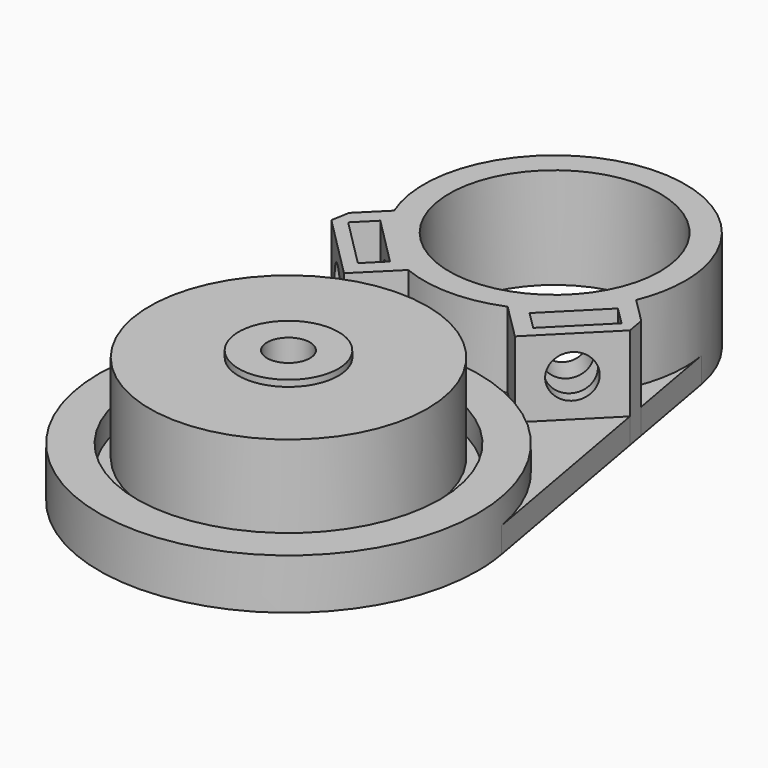
from build123d import *

# Parameters (mm, degrees)
F3_R         = 1.7
F4_DEPTH     = 10.5
F5_R         = 8.35
F5_R_2       = 1.7
F2_FACE1_R   = 15
F2_FACE1_R_2 = 1.7
F6_DEPTH     = 2
F7_DEPTH     = 8
F8_R         = 1.7
F9_DEPTH     = 6.4687966713
F10_R        = 1.7
F11_DEPTH    = 6.4687966703
F12_R        = 11
F12_R_2      = 3.95
F13_DEPTH    = 7


with BuildPart() as f2:
    # F1 (on Front) → F2 (revolve)
    with BuildSketch(Plane.XZ):
        Polygon((0, 10.5), (0, 0), (15, 0), (15, 4), (12, 4), (12, 2), (11, 2), (5.45, 2), (5.45, 3), (3.95, 3), (3.95, 10.5), align=None)
    revolve(axis=Axis((0, 0, 5.25), (0, 0, 1)))

    # F3 (on face) → F4 (cut, through all)
    with BuildSketch(Plane.XY.offset(10.5)):
        Circle(F3_R)
    extrude(amount=-F4_DEPTH, mode=Mode.SUBTRACT)

    # F5 (on face) + F2_face1 (on face) → F6 (join, through all)
    with BuildSketch(Plane(origin=(0, 0, 0), x_dir=(1, 0, 0), z_dir=(0, 0, -1))):
        with BuildLine():
            ThreePointArc((14.7645887035, -2.6470588235), (0, -15), (-14.7645887035, -2.6470588235))
            Line((-14.7645887035, -2.6470588235), (-11.8277186488, -19.0281373429))
            Line((-11.8277186488, -19.0281373429), (-6.769480635, -13.9539071991))
            Line((-6.769480635, -13.9539071991), (-3.9365929167, -16.7778666846))
            ThreePointArc((-3.9365929167, -16.7778666846), (0, -16), (3.9365929167, -16.7778666846))
            Line((3.9365929167, -16.7778666846), (6.769480635, -13.9539071991))
            Line((6.769480635, -13.9539071991), (11.8277186488, -19.0281373429))
            Line((11.8277186488, -19.0281373429), (14.7645887035, -2.6470588235))
        make_face()
        with BuildLine():
            Line((11.5702645211, -20.4641478586), (11.8277186488, -19.0281373429))
            Line((11.8277186488, -19.0281373429), (6.769480635, -13.9539071991))
            Line((6.769480635, -13.9539071991), (3.9365929167, -16.7778666846))
            ThreePointArc((3.9365929167, -16.7778666846), (7.3300969712, -19.0430048314), (9.5845118876, -22.4436421212))
            Line((9.5845118876, -22.4436421212), (11.5702645211, -20.4641478586))
        make_face()
        Polygon((9.4102464779, -20.8523748379), (5.5273021855, -16.9571542252), (6.9437460446, -15.5451744825), (10.8266903371, -19.4403950952), align=None, mode=Mode.SUBTRACT)
        with BuildLine():
            Line((10.1875662054, -28.1764705882), (11.5702645211, -20.4641478586))
            Line((11.5702645211, -20.4641478586), (9.5845118876, -22.4436421212))
            ThreePointArc((9.5845118876, -22.4436421212), (10.1568252431, -24.359673147), (10.35, -26.35))
            ThreePointArc((10.35, -26.35), (10.3093115732, -27.2668396189), (10.1875662054, -28.1764705882))
        make_face()
        with BuildLine():
            ThreePointArc((-9.5845118876, -22.4436421212), (-10.2932064289, -25.2672251329), (-10.1875662054, -28.1764705882))
            ThreePointArc((-10.1875662054, -28.1764705882), (0, -36.7), (10.1875662054, -28.1764705882))
            ThreePointArc((10.1875662054, -28.1764705882), (10.3093115732, -27.2668396189), (10.35, -26.35))
            ThreePointArc((10.35, -26.35), (10.1568252431, -24.359673147), (9.5845118876, -22.4436421212))
            ThreePointArc((9.5845118876, -22.4436421212), (7.3300969712, -19.0430048314), (3.9365929167, -16.7778666846))
            ThreePointArc((3.9365929167, -16.7778666846), (0, -16), (-3.9365929167, -16.7778666846))
            ThreePointArc((-3.9365929167, -16.7778666846), (-7.3300969712, -19.0430048314), (-9.5845118876, -22.4436421212))
        make_face()
        with Locations((0, -26.35)):
            Circle(F5_R, mode=Mode.SUBTRACT)
        with BuildLine():
            Line((-6.769480635, -13.9539071991), (-11.8277186488, -19.0281373429))
            Line((-11.8277186488, -19.0281373429), (-11.5702645211, -20.4641478586))
            Line((-11.5702645211, -20.4641478586), (-9.5845118876, -22.4436421212))
            ThreePointArc((-9.5845118876, -22.4436421212), (-7.3300969712, -19.0430048314), (-3.9365929167, -16.7778666846))
            Line((-3.9365929167, -16.7778666846), (-6.769480635, -13.9539071991))
        make_face()
        Polygon((-5.5273021855, -16.9571542252), (-9.4102464779, -20.8523748379), (-10.8266903371, -19.4403950952), (-6.9437460446, -15.5451744825), align=None, mode=Mode.SUBTRACT)
        Polygon((-10.8266903371, -19.4403950952), (-9.4102464779, -20.8523748379), (-5.5273021855, -16.9571542252), (-6.9437460446, -15.5451744825), align=None)
        with BuildLine():
            Line((-9.5845118876, -22.4436421212), (-11.5702645211, -20.4641478586))
            Line((-11.5702645211, -20.4641478586), (-10.1875662054, -28.1764705882))
            ThreePointArc((-10.1875662054, -28.1764705882), (-10.2932064289, -25.2672251329), (-9.5845118876, -22.4436421212))
        make_face()
        with BuildLine():
            ThreePointArc((14.7645887035, -2.6470588235), (14.9410312655, -1.3287530709), (15, 0))
            ThreePointArc((15, 0), (-1.3287530709, 14.9410312655), (-14.7645887035, -2.6470588235))
            ThreePointArc((-14.7645887035, -2.6470588235), (0, -15), (14.7645887035, -2.6470588235))
        make_face()
        Circle(F5_R_2, mode=Mode.SUBTRACT)
        with BuildLine():
            Line((11.5702645211, -20.4641478586), (11.8277186488, -19.0281373429))
            Line((11.8277186488, -19.0281373429), (6.769480635, -13.9539071991))
            Line((6.769480635, -13.9539071991), (3.9365929167, -16.7778666846))
            ThreePointArc((3.9365929167, -16.7778666846), (7.3300969712, -19.0430048314), (9.5845118876, -22.4436421212))
            Line((9.5845118876, -22.4436421212), (11.5702645211, -20.4641478586))
        make_face()
        Polygon((9.4102464779, -20.8523748379), (5.5273021855, -16.9571542252), (6.9437460446, -15.5451744825), (10.8266903371, -19.4403950952), align=None, mode=Mode.SUBTRACT)
        Polygon((6.9437460446, -15.5451744825), (5.5273021855, -16.9571542252), (9.4102464779, -20.8523748379), (10.8266903371, -19.4403950952), align=None)
        with BuildLine():
            ThreePointArc((14.7645887035, -2.6470588235), (0, -15), (-14.7645887035, -2.6470588235))
            Line((-14.7645887035, -2.6470588235), (-11.8277186488, -19.0281373429))
            Line((-11.8277186488, -19.0281373429), (-6.769480635, -13.9539071991))
            Line((-6.769480635, -13.9539071991), (-3.9365929167, -16.7778666846))
            ThreePointArc((-3.9365929167, -16.7778666846), (0, -16), (3.9365929167, -16.7778666846))
            Line((3.9365929167, -16.7778666846), (6.769480635, -13.9539071991))
            Line((6.769480635, -13.9539071991), (11.8277186488, -19.0281373429))
            Line((11.8277186488, -19.0281373429), (14.7645887035, -2.6470588235))
        make_face()
    with BuildSketch(Plane(origin=(0, 0, 0), x_dir=(1, 0, 0), z_dir=(0, 0, -1))):
        Circle(F2_FACE1_R)
        Circle(F2_FACE1_R_2, mode=Mode.SUBTRACT)
    extrude(amount=-F6_DEPTH)

    # F5 (on face) → F7 (join)
    with BuildSketch(Plane(origin=(0, 0, 0), x_dir=(1, 0, 0), z_dir=(0, 0, -1))):
        with BuildLine():
            ThreePointArc((-9.5845118876, -22.4436421212), (-10.2932064289, -25.2672251329), (-10.1875662054, -28.1764705882))
            ThreePointArc((-10.1875662054, -28.1764705882), (0, -36.7), (10.1875662054, -28.1764705882))
            ThreePointArc((10.1875662054, -28.1764705882), (10.3093115732, -27.2668396189), (10.35, -26.35))
            ThreePointArc((10.35, -26.35), (10.1568252431, -24.359673147), (9.5845118876, -22.4436421212))
            ThreePointArc((9.5845118876, -22.4436421212), (7.3300969712, -19.0430048314), (3.9365929167, -16.7778666846))
            ThreePointArc((3.9365929167, -16.7778666846), (0, -16), (-3.9365929167, -16.7778666846))
            ThreePointArc((-3.9365929167, -16.7778666846), (-7.3300969712, -19.0430048314), (-9.5845118876, -22.4436421212))
        make_face()
        with Locations((0, -26.35)):
            Circle(F5_R, mode=Mode.SUBTRACT)
        with BuildLine():
            Line((-6.769480635, -13.9539071991), (-11.8277186488, -19.0281373429))
            Line((-11.8277186488, -19.0281373429), (-11.5702645211, -20.4641478586))
            Line((-11.5702645211, -20.4641478586), (-9.5845118876, -22.4436421212))
            ThreePointArc((-9.5845118876, -22.4436421212), (-7.3300969712, -19.0430048314), (-3.9365929167, -16.7778666846))
            Line((-3.9365929167, -16.7778666846), (-6.769480635, -13.9539071991))
        make_face()
        Polygon((-5.5273021855, -16.9571542252), (-9.4102464779, -20.8523748379), (-10.8266903371, -19.4403950952), (-6.9437460446, -15.5451744825), align=None, mode=Mode.SUBTRACT)
        with BuildLine():
            Line((11.5702645211, -20.4641478586), (11.8277186488, -19.0281373429))
            Line((11.8277186488, -19.0281373429), (6.769480635, -13.9539071991))
            Line((6.769480635, -13.9539071991), (3.9365929167, -16.7778666846))
            ThreePointArc((3.9365929167, -16.7778666846), (7.3300969712, -19.0430048314), (9.5845118876, -22.4436421212))
            Line((9.5845118876, -22.4436421212), (11.5702645211, -20.4641478586))
        make_face()
        Polygon((9.4102464779, -20.8523748379), (5.5273021855, -16.9571542252), (6.9437460446, -15.5451744825), (10.8266903371, -19.4403950952), align=None, mode=Mode.SUBTRACT)
    extrude(amount=-F7_DEPTH)

    # F8 (on face) → F9 (cut, up to face)
    with BuildSketch(Plane(origin=(3.5814942406, 3.5702066719, 0), x_dir=(0.7059898714, -0.7082219296, 0), z_dir=(-0.7082219296, -0.7059898714, 0))):
        with Locations((-18.2440207785, 5)):
            Circle(F8_R)
    extrude(amount=-F9_DEPTH, mode=Mode.SUBTRACT)

    # F10 (on face) → F11 (cut, up to face)
    with BuildSketch(Plane(origin=(-3.5814942406, 3.5702066719, 0), x_dir=(0.7059898714, 0.7082219296, 0), z_dir=(0.7082219296, -0.7059898714, 0))):
        with Locations((18.2440207785, 5)):
            Circle(F10_R)
    extrude(amount=-F11_DEPTH, mode=Mode.SUBTRACT)


with BuildPart() as f13:
    # F12 (on face) → F13 (new body)
    with BuildSketch(Plane.XY.offset(3)):
        Circle(F12_R)
        Circle(F12_R_2, mode=Mode.SUBTRACT)
    extrude(amount=F13_DEPTH)


solid = Compound([f2.part, f13.part])
